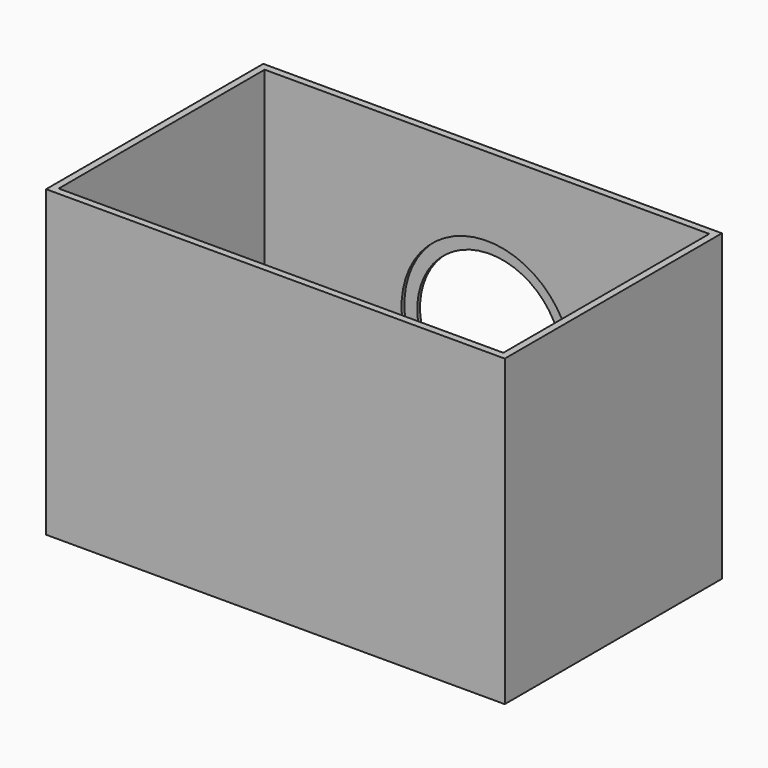
from build123d import *

# Parameters (mm, degrees)
SKETCH_W        = 98
SKETCH_H        = 58
SKETCH_W_2      = 95
SKETCH_H_2      = 55
PAD_DEPTH       = 65
SKETCH001_W     = 98
SKETCH001_H     = 58
PAD001_DEPTH    = 1.5
SKETCH002_R     = 15.5
POCKET_DEPTH    = 5
SKETCH004_R     = 18.25
POCKET002_DEPTH = 0.75
SKETCH003_W     = 14.5
SKETCH003_H     = 12
SKETCH003_W_2   = 13
SKETCH003_H_2   = 6
SKETCH003_W_3   = 8
SKETCH003_H_3   = 4
POCKET003_DEPTH = 5
PAD002_DEPTH    = 3
PAD003_DEPTH    = 1


with BuildPart() as part:
    # Sketch → Pad (new body)
    with BuildSketch(Plane.XY):
        with Locations((0, -29)):
            Rectangle(SKETCH_W, SKETCH_H)
        with Locations((0, -29)):
            Rectangle(SKETCH_W_2, SKETCH_H_2, mode=Mode.SUBTRACT)
    extrude(amount=PAD_DEPTH)

    # Sketch001 → Pad001 (join)
    with BuildSketch(Plane.XY):
        with Locations((0, -29)):
            Rectangle(SKETCH001_W, SKETCH001_H)
    extrude(amount=PAD001_DEPTH)

    # Sketch002 → Pocket (cut)
    with BuildSketch(Plane.XZ):
        with Locations((0, 30)):
            Circle(SKETCH002_R)
    extrude(amount=POCKET_DEPTH, mode=Mode.SUBTRACT)

    # Sketch004 → Pocket002 (cut)
    with BuildSketch(Plane.XZ.offset(1.5)):
        with Locations((0, 30)):
            Circle(SKETCH004_R)
    extrude(amount=-POCKET002_DEPTH, mode=Mode.SUBTRACT)

    # Sketch003 → Pocket003 (cut)
    with BuildSketch(Plane.XY):
        with Locations((0, -8.5)):
            Rectangle(SKETCH003_W, SKETCH003_H)
        with Locations((31, -46)):
            Rectangle(SKETCH003_W_2, SKETCH003_H_2)
        with Locations((16.2, -46)):
            Rectangle(SKETCH003_W_3, SKETCH003_H_3)
    extrude(amount=POCKET003_DEPTH, mode=Mode.SUBTRACT)

    # Sketch005 → Pad002 (join)
    with BuildSketch(Plane.XZ):
        with BuildLine():
            ThreePointArc((23.5, 30), (0, 53.5), (-23.5, 30))
            Line((-25, 30), (-23.5, 30))
            ThreePointArc((25, 30), (0, 55), (-25, 30))
            Line((23.5, 30), (25, 30))
        make_face()
    extrude(amount=-PAD002_DEPTH)

    # Sketch006 (on Face33 of Pad002) → Pad003 (join)
    with BuildSketch(Plane(origin=(0, 3, 0), x_dir=(-1, 0, 0), z_dir=(0, 1, 0))):
        with BuildLine():
            ThreePointArc((26.5, 30), (0, 56.5), (-26.5, 30))
            Line((-26.5, 30), (-23.5, 30))
            ThreePointArc((23.5, 30), (0, 53.5), (-23.5, 30))
            Line((23.5, 30), (26.5, 30))
        make_face()
    extrude(amount=-PAD003_DEPTH)


solid = part.part
